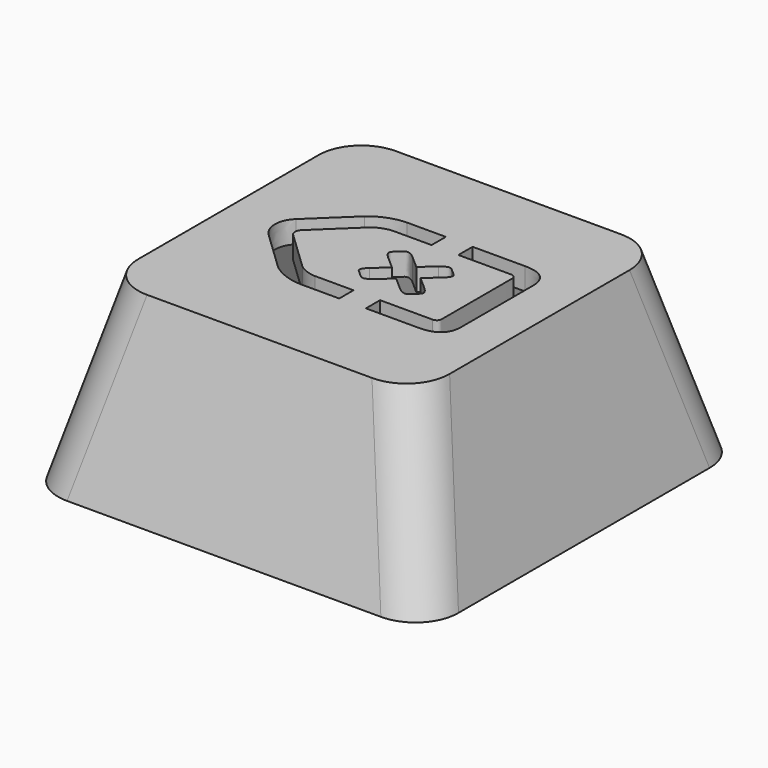
from build123d import *

# Parameters (mm, degrees)
EXTRUDE_DEPTH        = 1
SKETCH_W             = 18
SKETCH_H             = 18
PAD_DEPTH            = 8
POCKET_DEPTH         = 18.001
POCKET001_DEPTH      = 9.001
POCKET001_DEPTH_BACK = 9.001
FILLET_R             = 2
THICKNESS_T          = -1


with BuildPart() as extrude_body:
    # Sketch003 → Extrude (new body)
    with BuildSketch(Plane.XY):
        with BuildLine():
            add(Edge.make_bspline(
                [(0, 0.5656), (0.587711, 1.0828)],
                knots=[0, 0, 1, 1], degree=1))
            add(Edge.make_bspline(
                [(0.587711, 1.0828), (0.909016, 1.35583), (1.22484, 1.07789), (1.54067, 0.799956), (1.23042, 0.517199)],
                knots=[0, 0, 0, 0.333333, 0.666667, 1, 1, 1], degree=2))
            add(Edge.make_bspline(
                [(1.23042, 0.517199), (0.642707, 0)],
                knots=[0, 0, 1, 1], degree=1))
            add(Edge.make_bspline(
                [(0.642707, 0), (1.23042, -0.517202)],
                knots=[0, 0, 1, 1], degree=1))
            add(Edge.make_bspline(
                [(1.23042, -0.517202), (1.54067, -0.799959), (1.22484, -1.0779), (0.909016, -1.35583), (0.587711, -1.0828)],
                knots=[0, 0, 0, 0.333333, 0.666667, 1, 1, 1], degree=2))
            add(Edge.make_bspline(
                [(0.587711, -1.0828), (0, -0.5656)],
                knots=[0, 0, 1, 1], degree=1))
            add(Edge.make_bspline(
                [(0, -0.5656), (-0.587708, -1.0828)],
                knots=[0, 0, 1, 1], degree=1))
            add(Edge.make_bspline(
                [(-0.587708, -1.0828), (-0.909014, -1.3559), (-1.22488, -1.07793), (-1.54074, -0.79996), (-1.23042, -0.517202)],
                knots=[0, 0, 0, 0.333333, 0.666667, 1, 1, 1], degree=2))
            add(Edge.make_bspline(
                [(-1.23042, -0.517202), (-0.642707, 0)],
                knots=[0, 0, 1, 1], degree=1))
            add(Edge.make_bspline(
                [(-0.642707, 0), (-1.23042, 0.517199)],
                knots=[0, 0, 1, 1], degree=1))
            add(Edge.make_bspline(
                [(-1.23042, 0.517199), (-1.54074, 0.799958), (-1.22488, 1.07793), (-0.909014, 1.3559), (-0.587708, 1.0828)],
                knots=[0, 0, 0, 0.333333, 0.666667, 1, 1, 1], degree=2))
            add(Edge.make_bspline(
                [(-0.587708, 1.0828), (0, 0.5656)],
                knots=[0, 0, 1, 1], degree=1))
        make_face()
        with BuildLine():
            Line((-0.613575, -3), (-2.35447, -3))
            add(Edge.make_bspline(
                [(-2.35447, -3), (-2.85946, -3), (-3.49148, -2.7568), (-3.83261, -2.4312)],
                knots=[0, 0, 0, 0, 1, 1, 1, 1], degree=3))
            add(Edge.make_bspline(
                [(-3.83261, -2.4312), (-5.57096, -0.772401)],
                knots=[0, 0, 1, 1], degree=1))
            add(Edge.make_bspline(
                [(-5.57096, -0.772401), (-6.02186, -0.3424), (-6.02208, 0.341998), (-5.57096, 0.772398)],
                knots=[0, 0, 0, 0, 1, 1, 1, 1], degree=3))
            add(Edge.make_bspline(
                [(-5.57096, 0.772398), (-3.83238, 2.4312)],
                knots=[0, 0, 1, 1], degree=1))
            add(Edge.make_bspline(
                [(-3.83238, 2.4312), (-3.49216, 2.756), (-2.85809, 3), (-2.35447, 3)],
                knots=[0, 0, 0, 0, 1, 1, 1, 1], degree=3))
            Line((-2.35447, 3), (-0.619992, 3))
            Line((-0.619992, 3), (-0.619992, 2.2))
            Line((-0.619992, 2.2), (-2.35447, 2.2))
            add(Edge.make_bspline(
                [(-2.35447, 2.2), (-2.60446, 2.2), (-2.99604, 2.0494), (-3.16422, 1.8888)],
                knots=[0, 0, 0, 0, 1, 1, 1, 1], degree=3))
            add(Edge.make_bspline(
                [(-3.16422, 1.8888), (-4.9028, 0.230198)],
                knots=[0, 0, 1, 1], degree=1))
            add(Edge.make_bspline(
                [(-4.9028, 0.230198), (-5.03257, 0.106198), (-5.03234, -0.106201), (-4.9028, -0.230201)],
                knots=[0, 0, 0, 0, 1, 1, 1, 1], degree=3))
            add(Edge.make_bspline(
                [(-4.9028, -0.230201), (-3.16422, -1.8888)],
                knots=[0, 0, 1, 1], degree=1))
            add(Edge.make_bspline(
                [(-3.16422, -1.8888), (-2.99536, -2.05), (-2.6056, -2.2), (-2.35447, -2.198788)],
                knots=[0, 0, 0, 0, 1, 1, 1, 1], degree=3))
            Line((-2.35447, -2.198788), (-0.613575, -2.198788))
            Line((-0.613575, -2.198788), (-0.613575, -3))
        make_face()
        with BuildLine():
            add(Edge.make_bspline(
                [(2.95332, 3), (4.09261, 3.001), (4.09078, 1.9984)],
                knots=[0, 0, 0, 1, 1, 1], degree=2))
            add(Edge.make_bspline(
                [(4.09078, 1.9984), (4.09078, -1.9984)],
                knots=[0, 0, 1, 1], degree=1))
            add(Edge.make_bspline(
                [(4.09078, -1.9984), (4.09169, -3), (2.95354, -3)],
                knots=[0, 0, 0, 1, 1, 1], degree=2))
            Line((2.95354, -3), (0.585592, -3))
            Line((0.585592, -3), (0.585592, -2.20349))
            Line((0.585592, -2.20349), (2.95354, -2.20349))
            add(Edge.make_bspline(
                [(2.95354, -2.20349), (3.07945, -2.2), (3.18172, -2.1102), (3.18172, -1.9984)],
                knots=[0, 0, 0, 0, 1, 1, 1, 1], degree=3))
            add(Edge.make_bspline(
                [(3.18172, -1.9984), (3.18172, 1.9984)],
                knots=[0, 0, 1, 1], degree=1))
            add(Edge.make_bspline(
                [(3.18172, 1.9984), (3.18172, 2.1104), (3.08036, 2.2), (2.95354, 2.2)],
                knots=[0, 0, 0, 0, 1, 1, 1, 1], degree=3))
            Line((2.95354, 2.2), (0.586243, 2.2))
            Line((0.586243, 2.2), (0.586243, 3))
            Line((0.586243, 3), (2.95332, 3))
        make_face()
    extrude(amount=EXTRUDE_DEPTH)


with BuildPart() as extrude_body_1:
    # Extrude placement: moved
    add(extrude_body.part.moved(Location((1, 0, 7))))


with BuildPart() as cut:
    # Sketch → Pad (new body)
    with BuildSketch(Plane.XY):
        Rectangle(SKETCH_W, SKETCH_H)
    extrude(amount=PAD_DEPTH)

    # Sketch001 (on Face1 of Pad) → Pocket (cut, through all)
    with BuildSketch(Plane.XZ.offset(9)):
        Polygon((-9, 8), (-9, 0), (-7, 8), align=None)
        Polygon((9, 8), (9, 0), (7, 8), align=None)
    extrude(amount=-POCKET_DEPTH, mode=Mode.SUBTRACT)

    # Sketch002 → Pocket001 (cut, two sides)
    with BuildSketch(Plane.YZ) as pocket001_sk:
        Polygon((-9, 8), (-7, 8), (-9, 0), align=None)
        Polygon((9, 8), (7, 8), (9, 0), align=None)
    extrude(amount=-POCKET001_DEPTH, mode=Mode.SUBTRACT)
    extrude(pocket001_sk.sketch, amount=POCKET001_DEPTH_BACK, mode=Mode.SUBTRACT)

    # Fillet
    fillet_edges = [cut.edges().sort_by_distance(p)[0] for p in [
        (-8, 8, 4),
        (-8, -8, 4),
        (8, -8, 4),
        (8, 8, 4),
    ]]
    fillet(fillet_edges, radius=FILLET_R)

    # Thickness
    thickness_openings = [cut.faces().sort_by_distance(p)[0] for p in [
        (0, 0, 0),
    ]]
    offset(amount=THICKNESS_T, openings=thickness_openings, kind=Kind.INTERSECTION)

    # Cut: cut Extrude body
    add(extrude_body_1.part, mode=Mode.SUBTRACT)


solid = cut.part
